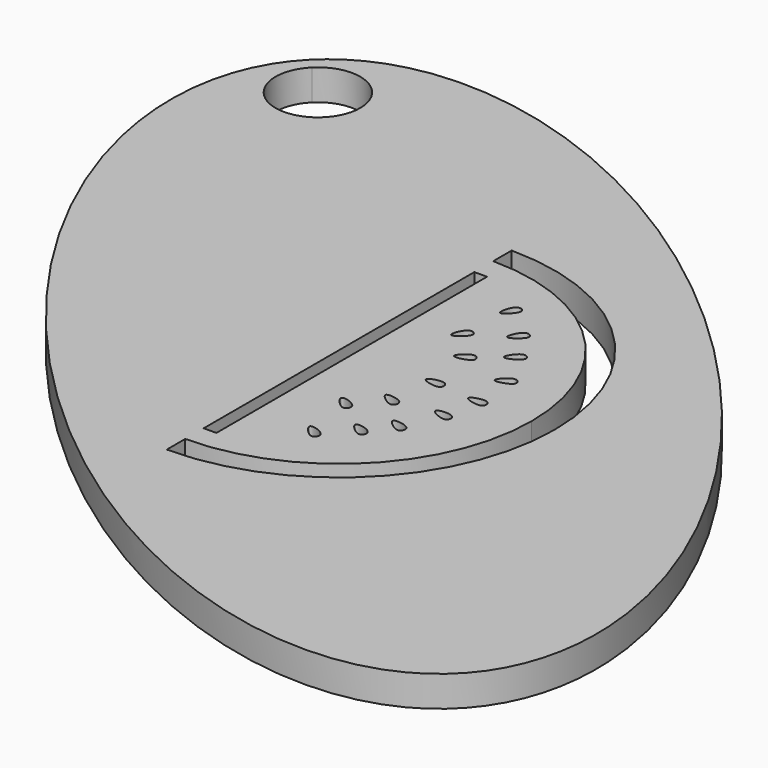
from build123d import *

# Parameters (mm, degrees)
F1_DEPTH = 5.08
F2_SCALE = 0.6


with BuildPart() as f1:
    # F0 (on Top) → F1 (new body)
    with BuildSketch(Plane.XY):
        with BuildLine():
            add(Edge.make_bspline(
                [(-53.5362008634, 60.9009180024), (-105.9061494937, 8.5309693721), (11.6302018251, -56.6354333164), (129.1665531438, -121.8018360048), (64.0001504554, -4.2654846861), (-1.1662522331, 113.2708666327), (-53.5362008634, 60.9009180024)],
                knots=[0, 0, 0, 2.0943951024, 2.0943951024, 4.1887902048, 4.1887902048, 6.2831853072, 6.2831853072, 6.2831853072], degree=2, weights=[1, 0.5, 1, 0.5, 1, 0.5, 1]))
        make_face()
        with BuildLine():
            ThreePointArc((0, 35.56), (25.144717139, 25.144717139), (35.56, 0))
            ThreePointArc((35.56, 0), (25.144717139, -25.144717139), (0, -35.56))
            ThreePointArc((0, -35.56), (-35.56, 0), (0, 35.56))
        make_face(mode=Mode.SUBTRACT)
        with BuildLine():
            ThreePointArc((-40.0654902612, 54.4170743002), (-49.726115368, 47.9620509749), (-51.9928181254, 59.3575352644))
            ThreePointArc((-51.9928181254, 59.3575352644), (-44.3785989544, 60.8720976255), (-40.0654902612, 54.4170743002))
        make_face(mode=Mode.SUBTRACT)
        with BuildLine():
            Line((0, 31.75), (0, 35.56))
            ThreePointArc((0, 35.56), (-35.56, 0), (0, -35.56))
            Line((0, -35.56), (0, -31.75))
            ThreePointArc((0, -31.75), (-31.75, 0), (0, 31.75))
        make_face()
        with BuildLine():
            Line((0, 27.94), (0, 31.75))
            ThreePointArc((0, 31.75), (-31.75, 0), (0, -31.75))
            Line((0, -31.75), (0, -27.94))
            Line((0, -27.94), (0, 0))
            Line((0, 0), (0, 27.86145611))
            Line((0, 27.86145611), (0, 27.94))
        make_face()
        with BuildLine():
            ThreePointArc((31.75, 0), (22.4506403027, 22.4506403027), (0, 31.75))
            Line((0, 31.75), (0, 27.94))
            Line((0, 27.94), (0, 27.86145611))
            Line((0, 27.86145611), (2.0935289419, 27.86145611))
            Line((2.0935289419, 27.86145611), (2.0935289419, -27.94))
            Line((2.0935289419, -27.94), (0, -27.94))
            Line((0, -27.94), (0, -31.75))
            ThreePointArc((0, -31.75), (22.4506403027, -22.4506403027), (31.75, 0))
        make_face()
        with BuildLine():
            add(Edge.make_bspline(
                [(10.3729563583, -18.9075581729), (10.0978168554, -19.1792849013), (11.4486008089, -20.8049615719), (12.6142824112, -21.1845704807), (13.4111066609, -19.4831420286), (10.6828407916, -18.6015174834), (10.3729563583, -18.9075581729)],
                knots=[0, 0, 0, 0, 0.2762134725, 0.4824453001, 0.6889059751, 1, 1, 1, 1], degree=3))
        make_face(mode=Mode.SUBTRACT)
        with BuildLine():
            add(Edge.make_bspline(
                [(8.5926494379, -10.1722370818), (8.317509935, -10.4439638101), (9.6682938885, -12.0696404807), (10.8339754908, -12.4492493895), (11.6307997405, -10.7478209375), (8.9025338712, -9.8661963922), (8.5926494379, -10.1722370818)],
                knots=[0, 0, 0, 0, 0.2762134725, 0.4824453001, 0.6889059751, 1, 1, 1, 1], degree=3))
        make_face(mode=Mode.SUBTRACT)
        with BuildLine():
            add(Edge.make_bspline(
                [(14.6311537152, -14.8227876052), (14.380743746, -15.117460319), (15.8680746165, -16.6192222204), (17.0624055447, -16.8957907568), (17.7079083771, -15.1313889444), (14.9131857411, -14.4909032849), (14.6311537152, -14.8227876052)],
                knots=[0, 0, 0, 0, 0.2762134725, 0.4824453001, 0.6889059751, 1, 1, 1, 1], degree=3))
        make_face(mode=Mode.SUBTRACT)
        with BuildLine():
            add(Edge.make_bspline(
                [(17.7420255732, -11.0142019342), (17.5182509087, -11.3295779962), (19.1308092101, -12.6959958134), (20.3446998849, -12.8674191239), (20.8339686336, -11.0534721142), (17.9940587576, -10.6589998232), (17.7420255732, -11.0142019342)],
                knots=[0, 0, 0, 0, 0.2762134725, 0.4824453001, 0.6889059751, 1, 1, 1, 1], degree=3))
        make_face(mode=Mode.SUBTRACT)
        with BuildLine():
            add(Edge.make_bspline(
                [(12.5122274276, -5.9603096682), (12.2884527631, -6.2756857302), (13.9010110645, -7.6421035474), (15.1149017393, -7.8135268579), (15.604170488, -5.9995798482), (12.764260612, -5.6051075572), (12.5122274276, -5.9603096682)],
                knots=[0, 0, 0, 0, 0.2762134725, 0.4824453001, 0.6889059751, 1, 1, 1, 1], degree=3))
        make_face(mode=Mode.SUBTRACT)
        with BuildLine():
            add(Edge.make_bspline(
                [(20.25563831, -5.4008006118), (20.1069115263, -5.7577564981), (21.9810741625, -6.7349751737), (23.202886243, -6.6345174135), (23.2801389349, -4.7573334364), (20.4231464817, -4.998767929), (20.25563831, -5.4008006118)],
                knots=[0, 0, 0, 0, 0.2762134725, 0.4824453001, 0.6889059751, 1, 1, 1, 1], degree=3))
        make_face(mode=Mode.SUBTRACT)
        with BuildLine():
            add(Edge.make_bspline(
                [(13.8156125322, 0.6588663221), (13.7460874944, 0.2784672815), (15.7850347627, -0.2784312403), (16.9576399554, 0.0792188454), (16.6344609001, 1.9299870537), (13.8939172711, 1.0873025875), (13.8156125322, 0.6588663221)],
                knots=[0, 0, 0, 0, 0.2762134725, 0.4824453001, 0.6889059751, 1, 1, 1, 1], degree=3))
        make_face(mode=Mode.SUBTRACT)
        with BuildLine():
            add(Edge.make_bspline(
                [(21.3444959372, 0), (21.2749708994, -0.3803990406), (23.3139181678, -0.9372975624), (24.4865233604, -0.5796474767), (24.1633443052, 1.2711207316), (21.4228006762, 0.4284362654), (21.3444959372, 0)],
                knots=[0, 0, 0, 0, 0.2762134725, 0.4824453001, 0.6889059751, 1, 1, 1, 1], degree=3))
        make_face(mode=Mode.SUBTRACT)
        with BuildLine():
            add(Edge.make_bspline(
                [(20.8580587059, 5.9884428047), (20.9880477773, 5.624245053), (23.0322771695, 6.16143042), (23.8689580121, 7.0574670762), (22.6636926362, 8.4986898335), (20.7116544664, 6.3986318639), (20.8580587059, 5.9884428047)],
                knots=[0, 0, 0, 0, 0.2762134725, 0.4824453001, 0.6889059751, 1, 1, 1, 1], degree=3))
        make_face(mode=Mode.SUBTRACT)
        with BuildLine():
            add(Edge.make_bspline(
                [(12.5529703746, 7.999653928), (12.6661647801, 7.6298915887), (14.7328257498, 8.0730104926), (15.6096161105, 8.9298390548), (14.4715345744, 10.424682886), (12.4254816504, 8.4161102773), (12.5529703746, 7.999653928)],
                knots=[0, 0, 0, 0, 0.2762134725, 0.4824453001, 0.6889059751, 1, 1, 1, 1], degree=3))
        make_face(mode=Mode.SUBTRACT)
        with BuildLine():
            add(Edge.make_bspline(
                [(8.5926494379, 12.3140355572), (8.8499809693, 12.0253875987), (10.5424735982, 13.2914486667), (10.9810758315, 14.4362388669), (9.3225285259, 15.3188534473), (8.3028217872, 12.6391343092), (8.5926494379, 12.3140355572)],
                knots=[0, 0, 0, 0, 0.2762134725, 0.4824453001, 0.6889059751, 1, 1, 1, 1], degree=3))
        make_face(mode=Mode.SUBTRACT)
        with BuildLine():
            add(Edge.make_bspline(
                [(17.78, 11.7228959575), (17.9712565211, 11.3868035534), (19.8911482155, 12.2708045764), (20.5595228636, 13.298516526), (19.1223024716, 14.508551735), (17.5645913872, 12.1014304938), (17.78, 11.7228959575)],
                knots=[0, 0, 0, 0, 0.2762134725, 0.4824453001, 0.6889059751, 1, 1, 1, 1], degree=3))
        make_face(mode=Mode.SUBTRACT)
        with BuildLine():
            add(Edge.make_bspline(
                [(14.6022886038, 16.3660477847), (14.8490013421, 16.0682727258), (16.586220401, 17.2722294809), (17.0659806291, 18.4003902163), (15.4404744353, 19.3424715696), (14.3244206994, 16.7014262178), (14.6022886038, 16.3660477847)],
                knots=[0, 0, 0, 0, 0.2762134725, 0.4824453001, 0.6889059751, 1, 1, 1, 1], degree=3))
        make_face(mode=Mode.SUBTRACT)
        with BuildLine():
            add(Edge.make_bspline(
                [(9.6890470013, 21.0587661713), (9.9837197151, 20.8083562021), (11.4854816165, 22.2956870726), (11.7620501529, 23.4900180009), (9.9976483405, 24.1355208332), (9.357162681, 21.3407981972), (9.6890470013, 21.0587661713)],
                knots=[0, 0, 0, 0, 0.2762134725, 0.4824453001, 0.6889059751, 1, 1, 1, 1], degree=3))
        make_face(mode=Mode.SUBTRACT)
    extrude(amount=F1_DEPTH)


with BuildPart() as f1_1:
    # F2: moved
    add(f1.part.scale(F2_SCALE).moved(Location((2.9458868556, 0, 0))))


solid = f1_1.part
